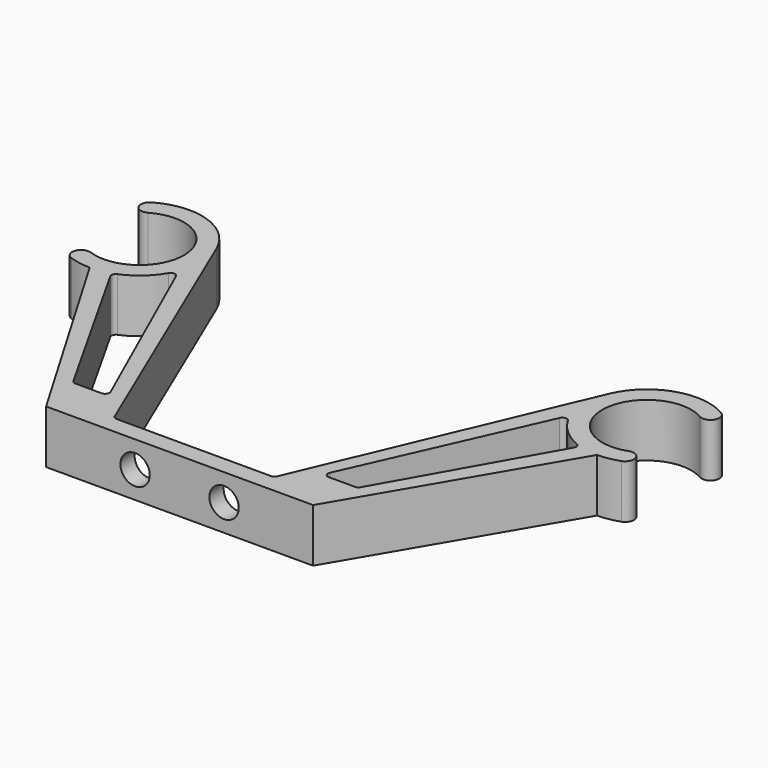
from build123d import *

# Parameters (mm, degrees)
F1_DEPTH = 6
F2_R     = 1.65
F3_DEPTH = 25


with BuildPart() as f1:
    # F0 (on Top) → F1 (new body)
    with BuildSketch(Plane.XY):
        with BuildLine():
            ThreePointArc((-32, 6.062178), (-32.366025, 4.696152), (-31, 4.330127))
            ThreePointArc((-31, 4.330127), (-23.519027, 0.435779), (-30.210101, -4.698463))
            ThreePointArc((-30.210101, -4.698463), (-31.491813, -5.296136), (-30.894141, -6.577848))
            ThreePointArc((-30.894141, -6.577848), (-29.715537, -6.893654), (-28.5, -7))
            Line((-28.5, -7), (-15, -30))
            Line((-15, -30), (0, -30))
            Line((0, -30), (15, -30))
            Line((15, -30), (28.5, -7))
            ThreePointArc((28.5, -7), (29.715537, -6.893654), (30.894141, -6.577848))
            ThreePointArc((30.894141, -6.577848), (31.491813, -5.296136), (30.210101, -4.698463))
            ThreePointArc((30.210101, -4.698463), (23.519027, 0.435779), (31, 4.330127))
            ThreePointArc((31, 4.330127), (32.366025, 4.696152), (32, 6.062178))
            ThreePointArc((32, 6.062178), (26.279799, 6.638577), (22.057234, 2.736926))
            Line((22.057234, 2.736926), (9.129356, -27.695495))
            ThreePointArc((9.129356, -27.695495), (8.945068, -27.916982), (8.669158, -28))
            Line((8.669158, -28), (0, -28))
            Line((0, -28), (-8.669158, -28))
            ThreePointArc((-8.669158, -28), (-8.945068, -27.916982), (-9.129356, -27.695495))
            Line((-9.129356, -27.695495), (-22.057234, 2.736926))
            ThreePointArc((-22.057234, 2.736926), (-26.279799, 6.638577), (-32, 6.062178))
        make_face()
        with BuildLine():
            Line((-16.143448, -24.745536), (-26.051811, -7.168974))
            ThreePointArc((-26.051811, -7.168974), (-26.089044, -6.760752), (-25.808501, -6.461875))
            ThreePointArc((-25.808501, -6.461875), (-23.883692, -5.262101), (-22.443534, -3.509875))
            ThreePointArc((-22.443534, -3.509875), (-21.984425, -3.261283), (-21.554214, -3.557084))
            Line((-21.554214, -3.557084), (-12.313453, -24.296503))
            ThreePointArc((-12.313453, -24.296503), (-12.350796, -24.772261), (-12.770169, -25))
            Line((-12.770169, -25), (-15.707888, -25))
            ThreePointArc((-15.707888, -25), (-15.960111, -24.931722), (-16.143448, -24.745536))
        make_face(mode=Mode.SUBTRACT)
        with BuildLine():
            ThreePointArc((21.554214, -3.557084), (21.984425, -3.261283), (22.443534, -3.509875))
            ThreePointArc((22.443534, -3.509875), (23.883692, -5.262101), (25.808501, -6.461875))
            ThreePointArc((25.808501, -6.461875), (26.089044, -6.760752), (26.051811, -7.168974))
            Line((26.051811, -7.168974), (16.143448, -24.745536))
            ThreePointArc((16.143448, -24.745536), (15.960111, -24.931722), (15.707888, -25))
            Line((15.707888, -25), (12.770169, -25))
            ThreePointArc((12.770169, -25), (12.350796, -24.772261), (12.313453, -24.296503))
            Line((12.313453, -24.296503), (21.554214, -3.557084))
        make_face(mode=Mode.SUBTRACT)
    extrude(amount=F1_DEPTH)

    # F2 (on face) → F3 (cut)
    with BuildSketch(Plane.XZ.offset(30)):
        with Locations((-5, 3)):
            Circle(F2_R)
        with Locations((5, 3)):
            Circle(F2_R)
    extrude(amount=-F3_DEPTH, mode=Mode.SUBTRACT)


solid = f1.part
